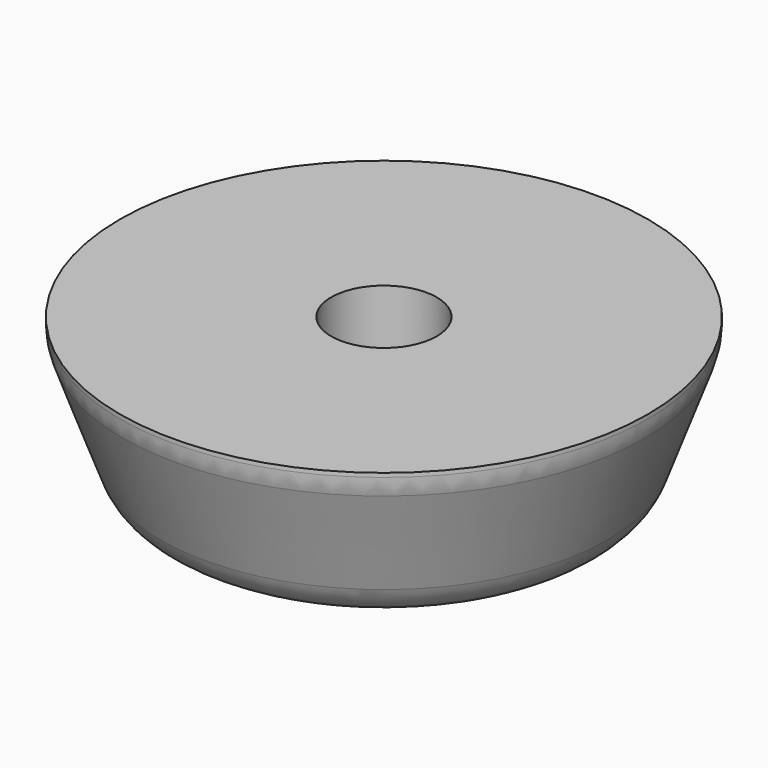
from build123d import *

# Parameters (mm, degrees)
F2_R           = 1.5875
F3_W           = 25.4
F3_H           = 15.875
F4_DEPTH       = 12.7
F6_D           = 1.5875
F6_DEPTH       = 19.05
F6_CBORE_D     = 3.175
F6_CBORE_DEPTH = 6.35


with BuildPart() as f1:
    # F0 (on Front) → F1 (revolve)
    with BuildSketch(Plane.XZ):
        Polygon((7.9375, 12.7), (0, 12.7), (0, 0), (6.35, 0), (7.9375, 4.36162), align=None)
    revolve(axis=Axis((0, 0, 6.35), (0, 0, 1)))

    # F2
    f2_edges = [f1.edges().sort_by_distance(p)[0] for p in [
        (-6.35, 0, 0),
        (-7.9375, 0, 4.36162),
    ]]
    fillet(f2_edges, radius=F2_R)

    # F3 (on Front) → F4 (cut, symmetric)
    with BuildSketch(Plane.XZ):
        with Locations((0, 12.7)):
            Rectangle(F3_W, F3_H)
    extrude(amount=F4_DEPTH, both=True, mode=Mode.SUBTRACT)

    # F6
    with Locations(Plane(origin=(0, 0, 0), x_dir=(1, 0, 0), z_dir=(0, 0, -1))):
        with Locations((0, 0)):
            CounterBoreHole(F6_D / 2, F6_CBORE_D / 2, F6_CBORE_DEPTH, depth=F6_DEPTH)


solid = f1.part
